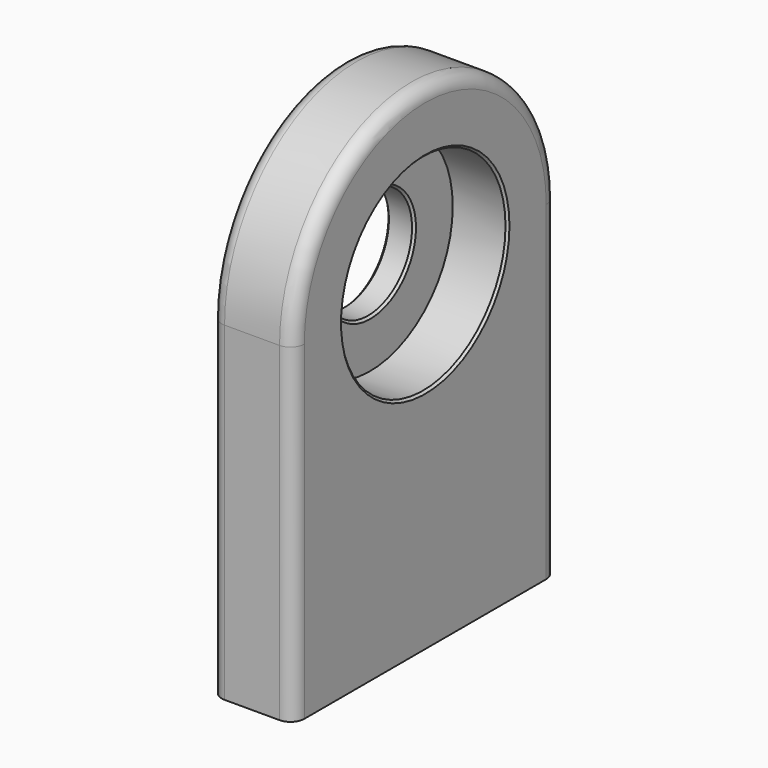
from build123d import *

# Parameters (mm, degrees)
F0_R     = 23.8125
F1_DEPTH = 19.05
F0_R_2   = 12.7
F2_DEPTH = 6.35
F3_SIZE  = 0.508
F4_R     = 2.54
F5_DEPTH = 25.4
F6_R     = 3.175


with BuildPart() as f1:
    # F0 (on Right) → F1 (new body)
    with BuildSketch(Plane.YZ):
        with BuildLine():
            Line((-38.1, -76.2), (38.1, -76.2))
            Line((38.1, -76.2), (38.1, 0))
            ThreePointArc((38.1, 0), (0, 38.1), (-38.1, 0))
            Line((-38.1, 0), (-38.1, -76.2))
        make_face()
        Circle(F0_R, mode=Mode.SUBTRACT)
    extrude(amount=F1_DEPTH)

    # F0 (on Right) → F2 (join)
    with BuildSketch(Plane.YZ):
        Circle(F0_R)
        Circle(F0_R_2, mode=Mode.SUBTRACT)
    extrude(amount=F2_DEPTH)

    # F3
    f3_edges = [f1.edges().sort_by_distance(p)[0] for p in [
        (0, -12.7, 0),
        (19.05, -23.8125, 0),
        (6.35, -12.7, 0),
    ]]
    chamfer(f3_edges, length=F3_SIZE)

    # F4 (on face) → F5 (cut)
    with BuildSketch(Plane(origin=(0, 0, -76.2), x_dir=(1, 0, 0), z_dir=(0, 0, -1))):
        with Locations((9.525, 25.4)):
            Circle(F4_R)
        with Locations((9.525, -25.4)):
            Circle(F4_R)
    extrude(amount=-F5_DEPTH, mode=Mode.SUBTRACT)

    # F6
    f6_edges = [f1.edges().sort_by_distance(p)[0] for p in [
        (19.05, -38.1, -38.1),
        (0, -38.1, -38.1),
    ]]
    fillet(f6_edges, radius=F6_R)


solid = f1.part
